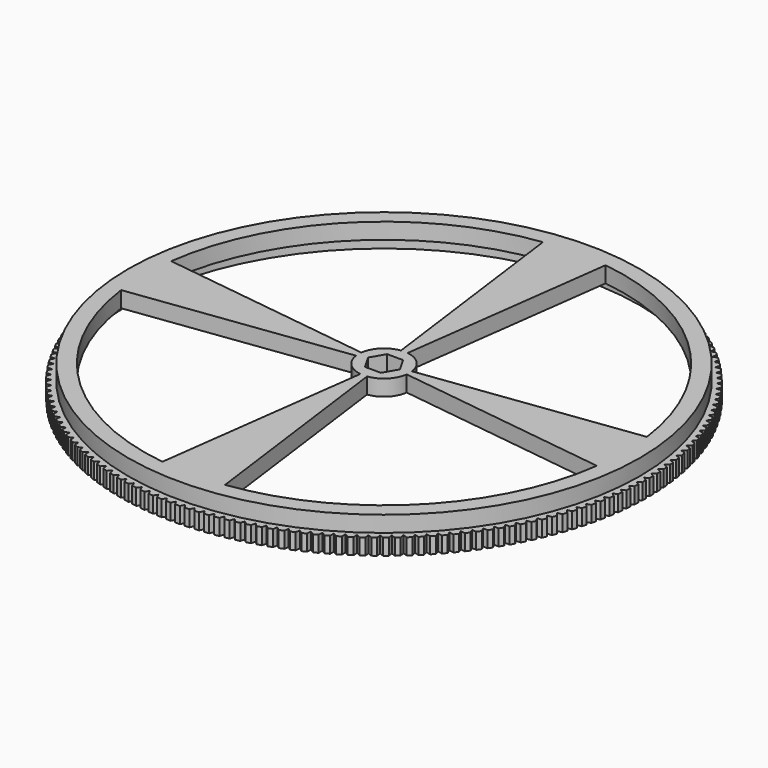
from build123d import *

# Parameters (mm, degrees)
F0_R     = 101.6
F1_DEPTH = 6.35
F2_R     = 101.6
F3_DEPTH = 6.35


with BuildPart() as f1:
    # F0 (on Top) → F1 (new body)
    with BuildSketch(Plane.XY):
        Circle(F0_R)
        with BuildLine():
            Line((-94.435123, -12.43262), (-10.07308, -1.326146))
            ThreePointArc((-10.07308, -1.326146), (-7.184205, -7.184205), (-1.326146, -10.07308))
            Line((-1.326146, -10.07308), (-12.43262, -94.435123))
            ThreePointArc((-12.43262, -94.435123), (-67.351921, -67.351921), (-94.435123, -12.43262))
        make_face(mode=Mode.SUBTRACT)
        Polygon((-6.35, 0.025492), (-3.152923, 5.512007), (3.197077, 5.486515), (6.35, -0.025492), (3.152923, -5.512007), (-3.197077, -5.486515), align=None, mode=Mode.SUBTRACT)
        with BuildLine():
            Line((12.43262, -94.435123), (1.326146, -10.07308))
            ThreePointArc((1.326146, -10.07308), (7.184205, -7.184205), (10.07308, -1.326146))
            Line((10.07308, -1.326146), (94.435123, -12.43262))
            ThreePointArc((94.435123, -12.43262), (67.351921, -67.351921), (12.43262, -94.435123))
        make_face(mode=Mode.SUBTRACT)
        with BuildLine():
            Line((-12.43262, 94.435123), (-1.326146, 10.07308))
            ThreePointArc((-1.326146, 10.07308), (-7.184205, 7.184205), (-10.07308, 1.326146))
            Line((-10.07308, 1.326146), (-94.435123, 12.43262))
            ThreePointArc((-94.435123, 12.43262), (-67.351921, 67.351921), (-12.43262, 94.435123))
        make_face(mode=Mode.SUBTRACT)
        with BuildLine():
            ThreePointArc((12.43262, 94.435123), (67.351921, 67.351921), (94.435123, 12.43262))
            Line((94.435123, 12.43262), (10.07308, 1.326146))
            ThreePointArc((10.07308, 1.326146), (7.184205, 7.184205), (1.326146, 10.07308))
            Line((1.326146, 10.07308), (12.43262, 94.435123))
        make_face(mode=Mode.SUBTRACT)
    extrude(amount=F1_DEPTH)

    # F2 (on Top) → F3 (join)
    with BuildSketch(Plane.XY):
        with BuildLine():
            Line((103.187357, 0), (104.77101, 0.914323))
            ThreePointArc((104.77101, 0.914323), (104.759042, 1.828576), (104.739096, 2.74269))
            Line((104.739096, 2.74269), (103.124498, 3.601187))
            Line((103.124498, 3.601187), (104.675277, 4.570221))
            ThreePointArc((104.675277, 4.570221), (104.63141, 5.4835), (104.579574, 6.396361))
            Line((104.579574, 6.396361), (102.935998, 7.197986))
            Line((102.935998, 7.197986), (104.452014, 8.220552))
            ThreePointArc((104.452014, 8.220552), (104.376299, 9.131743), (104.292637, 10.042239))
            Line((104.292637, 10.042239), (102.622086, 10.786016))
            Line((102.622086, 10.786016), (104.101491, 11.860867))
            ThreePointArc((104.101491, 11.860867), (103.994023, 12.76886), (103.878635, 13.675882))
            Line((103.878635, 13.675882), (102.183145, 14.360904))
            Line((102.183145, 14.360904), (103.624137, 15.486731))
            ThreePointArc((103.624137, 15.486731), (103.485046, 16.390421), (103.338074, 17.292863))
            Line((103.338074, 17.292863), (101.619709, 17.918297))
            Line((101.619709, 17.918297), (103.020533, 19.093727))
            ThreePointArc((103.020533, 19.093727), (102.849988, 19.992012), (102.671611, 20.888775))
            Line((102.671611, 20.888775), (100.932466, 21.453858))
            Line((100.932466, 21.453858), (102.291414, 22.677461))
            ThreePointArc((102.291414, 22.677461), (102.089624, 23.569247), (101.880058, 24.459238))
            Line((101.880058, 24.459238), (100.122252, 24.963281))
            Line((100.122252, 24.963281), (101.437669, 26.233565))
            ThreePointArc((101.437669, 26.233565), (101.204878, 27.117765), (100.964381, 27.999901))
            Line((100.964381, 27.999901), (99.190054, 28.44229))
            Line((99.190054, 28.44229), (100.460338, 29.757708))
            ThreePointArc((100.460338, 29.757708), (100.196831, 30.633245), (99.925694, 31.50645))
            Line((99.925694, 31.50645), (98.137008, 31.886647))
            Line((98.137008, 31.886647), (99.360611, 33.245595))
            ThreePointArc((99.360611, 33.245595), (99.066709, 34.111403), (98.765262, 34.974614))
            Line((98.765262, 34.974614), (96.964398, 35.292155))
            Line((96.964398, 35.292155), (98.139829, 36.692978))
            ThreePointArc((98.139829, 36.692978), (97.815889, 37.548002), (97.484501, 38.400166))
            Line((97.484501, 38.400166), (95.673651, 38.654664))
            Line((95.673651, 38.654664), (96.799478, 40.095657))
            ThreePointArc((96.799478, 40.095657), (96.445896, 40.938854), (96.084969, 41.778934))
            Line((96.084969, 41.778934), (94.266341, 41.970079))
            Line((94.266341, 41.970079), (95.341192, 43.449484))
            ThreePointArc((95.341192, 43.449484), (94.958398, 44.279828), (94.568373, 45.1068))
            Line((94.568373, 45.1068), (92.744182, 45.23436))
            Line((92.744182, 45.23436), (93.766748, 46.750376))
            ThreePointArc((93.766748, 46.750376), (93.355209, 47.566855), (92.93656, 48.379711))
            Line((92.93656, 48.379711), (91.109028, 48.44353))
            Line((91.109028, 48.44353), (92.078063, 49.994309))
            ThreePointArc((92.078063, 49.994309), (91.63828, 50.795928), (91.191518, 51.593679))
            Line((91.191518, 51.593679), (89.362873, 51.593679))
            Line((89.362873, 51.593679), (90.277195, 53.177332))
            ThreePointArc((90.277195, 53.177332), (89.809704, 53.963114), (89.335373, 54.744787))
            Line((89.335373, 54.744787), (87.507842, 54.680968))
            Line((87.507842, 54.680968), (88.366339, 56.295566))
            ThreePointArc((88.366339, 56.295566), (87.871709, 57.064555), (87.370387, 57.829198))
            Line((87.370387, 57.829198), (85.546196, 57.701638))
            Line((85.546196, 57.701638), (86.347821, 59.345213))
            ThreePointArc((86.347821, 59.345213), (85.826655, 60.096471), (85.298953, 60.843152))
            Line((85.298953, 60.843152), (83.480325, 60.652007))
            Line((83.480325, 60.652007), (84.224103, 62.322557))
            ThreePointArc((84.224103, 62.322557), (83.677036, 63.055169), (83.123596, 63.782979))
            Line((83.123596, 63.782979), (81.312747, 63.52848))
            Line((81.312747, 63.52848), (81.99777, 65.223971))
            ThreePointArc((81.99777, 65.223971), (81.425468, 65.937044), (80.846966, 66.645096))
            Line((80.846966, 66.645096), (79.046101, 66.327555))
            Line((79.046101, 66.327555), (79.671535, 68.045919))
            ThreePointArc((79.671535, 68.045919), (79.074696, 68.738585), (78.471836, 69.426016))
            Line((78.471836, 69.426016), (76.68315, 69.045819))
            Line((76.68315, 69.045819), (77.248233, 70.784964))
            ThreePointArc((77.248233, 70.784964), (76.627584, 71.456378), (76.0011, 72.122351))
            Line((76.0011, 72.122351), (74.226773, 71.679961))
            Line((74.226773, 71.679961), (74.730816, 73.437768))
            ThreePointArc((74.730816, 73.437768), (74.087113, 74.087113), (73.437768, 74.730816))
            Line((73.437768, 74.730816), (71.679961, 74.226773))
            Line((71.679961, 74.226773), (72.122351, 76.0011))
            ThreePointArc((72.122351, 76.0011), (71.456378, 76.627584), (70.784964, 77.248233))
            Line((70.784964, 77.248233), (69.045819, 76.68315))
            Line((69.045819, 76.68315), (69.426016, 78.471836))
            ThreePointArc((69.426016, 78.471836), (68.738585, 79.074696), (68.045919, 79.671535))
            Line((68.045919, 79.671535), (66.327555, 79.046101))
            Line((66.327555, 79.046101), (66.645096, 80.846966))
            ThreePointArc((66.645096, 80.846966), (65.937044, 81.425468), (65.223971, 81.99777))
            Line((65.223971, 81.99777), (63.52848, 81.312747))
            Line((63.52848, 81.312747), (63.782979, 83.123596))
            ThreePointArc((63.782979, 83.123596), (63.055169, 83.677036), (62.322557, 84.224103))
            Line((62.322557, 84.224103), (60.652007, 83.480325))
            Line((60.652007, 83.480325), (60.843152, 85.298953))
            ThreePointArc((60.843152, 85.298953), (60.096471, 85.826655), (59.345213, 86.347821))
            Line((59.345213, 86.347821), (57.701638, 85.546196))
            Line((57.701638, 85.546196), (57.829198, 87.370387))
            ThreePointArc((57.829198, 87.370387), (57.064555, 87.871709), (56.295566, 88.366339))
            Line((56.295566, 88.366339), (54.680968, 87.507842))
            Line((54.680968, 87.507842), (54.744787, 89.335373))
            ThreePointArc((54.744787, 89.335373), (53.963114, 89.809704), (53.177332, 90.277195))
            Line((53.177332, 90.277195), (51.593679, 89.362873))
            Line((51.593679, 89.362873), (51.593679, 91.191518))
            ThreePointArc((51.593679, 91.191518), (50.795928, 91.63828), (49.994309, 92.078063))
            Line((49.994309, 92.078063), (48.44353, 91.109028))
            Line((48.44353, 91.109028), (48.379711, 92.93656))
            ThreePointArc((48.379711, 92.93656), (47.566855, 93.355209), (46.750376, 93.766748))
            Line((46.750376, 93.766748), (45.23436, 92.744182))
            Line((45.23436, 92.744182), (45.1068, 94.568373))
            ThreePointArc((45.1068, 94.568373), (44.279828, 94.958398), (43.449484, 95.341192))
            Line((43.449484, 95.341192), (41.970079, 94.266341))
            Line((41.970079, 94.266341), (41.778934, 96.084969))
            ThreePointArc((41.778934, 96.084969), (40.938854, 96.445896), (40.095657, 96.799478))
            Line((40.095657, 96.799478), (38.654664, 95.673651))
            Line((38.654664, 95.673651), (38.400166, 97.484501))
            ThreePointArc((38.400166, 97.484501), (37.548002, 97.815889), (36.692978, 98.139829))
            Line((36.692978, 98.139829), (35.292155, 96.964398))
            Line((35.292155, 96.964398), (34.974614, 98.765262))
            ThreePointArc((34.974614, 98.765262), (34.111403, 99.066709), (33.245595, 99.360611))
            Line((33.245595, 99.360611), (31.886647, 98.137008))
            Line((31.886647, 98.137008), (31.50645, 99.925694))
            ThreePointArc((31.50645, 99.925694), (30.633245, 100.196831), (29.757708, 100.460338))
            Line((29.757708, 100.460338), (28.44229, 99.190054))
            Line((28.44229, 99.190054), (27.999901, 100.964381))
            ThreePointArc((27.999901, 100.964381), (27.117765, 101.204878), (26.233565, 101.437669))
            Line((26.233565, 101.437669), (24.963281, 100.122252))
            Line((24.963281, 100.122252), (24.459238, 101.880058))
            ThreePointArc((24.459238, 101.880058), (23.569247, 102.089624), (22.677461, 102.291414))
            Line((22.677461, 102.291414), (21.453858, 100.932466))
            Line((21.453858, 100.932466), (20.888775, 102.671611))
            ThreePointArc((20.888775, 102.671611), (19.992012, 102.849988), (19.093727, 103.020533))
            Line((19.093727, 103.020533), (17.918297, 101.619709))
            Line((17.918297, 101.619709), (17.292863, 103.338074))
            ThreePointArc((17.292863, 103.338074), (16.390421, 103.485046), (15.486731, 103.624137))
            Line((15.486731, 103.624137), (14.360904, 102.183145))
            Line((14.360904, 102.183145), (13.675882, 103.878635))
            ThreePointArc((13.675882, 103.878635), (12.76886, 103.994023), (11.860867, 104.101491))
            Line((11.860867, 104.101491), (10.786016, 102.622086))
            Line((10.786016, 102.622086), (10.042239, 104.292637))
            ThreePointArc((10.042239, 104.292637), (9.131743, 104.376299), (8.220552, 104.452014))
            Line((8.220552, 104.452014), (7.197986, 102.935998))
            Line((7.197986, 102.935998), (6.396361, 104.579574))
            ThreePointArc((6.396361, 104.579574), (5.4835, 104.63141), (4.570221, 104.675277))
            Line((4.570221, 104.675277), (3.601187, 103.124498))
            Line((3.601187, 103.124498), (2.74269, 104.739096))
            ThreePointArc((2.74269, 104.739096), (1.828576, 104.759042), (0.914323, 104.77101))
            Line((0.914323, 104.77101), (0, 103.187357))
            Line((0, 103.187357), (-0.914323, 104.77101))
            ThreePointArc((-0.914323, 104.77101), (-1.828576, 104.759042), (-2.74269, 104.739096))
            Line((-2.74269, 104.739096), (-3.601187, 103.124498))
            Line((-3.601187, 103.124498), (-4.570221, 104.675277))
            ThreePointArc((-4.570221, 104.675277), (-5.4835, 104.63141), (-6.396361, 104.579574))
            Line((-6.396361, 104.579574), (-7.197986, 102.935998))
            Line((-7.197986, 102.935998), (-8.220552, 104.452014))
            ThreePointArc((-8.220552, 104.452014), (-9.131743, 104.376299), (-10.042239, 104.292637))
            Line((-10.042239, 104.292637), (-10.786016, 102.622086))
            Line((-10.786016, 102.622086), (-11.860867, 104.101491))
            ThreePointArc((-11.860867, 104.101491), (-12.76886, 103.994023), (-13.675882, 103.878635))
            Line((-13.675882, 103.878635), (-14.360904, 102.183145))
            Line((-14.360904, 102.183145), (-15.486731, 103.624137))
            ThreePointArc((-15.486731, 103.624137), (-16.390421, 103.485046), (-17.292863, 103.338074))
            Line((-17.292863, 103.338074), (-17.918297, 101.619709))
            Line((-17.918297, 101.619709), (-19.093727, 103.020533))
            ThreePointArc((-19.093727, 103.020533), (-19.992012, 102.849988), (-20.888775, 102.671611))
            Line((-20.888775, 102.671611), (-21.453858, 100.932466))
            Line((-21.453858, 100.932466), (-22.677461, 102.291414))
            ThreePointArc((-22.677461, 102.291414), (-23.569247, 102.089624), (-24.459238, 101.880058))
            Line((-24.459238, 101.880058), (-24.963281, 100.122252))
            Line((-24.963281, 100.122252), (-26.233565, 101.437669))
            ThreePointArc((-26.233565, 101.437669), (-27.117765, 101.204878), (-27.999901, 100.964381))
            Line((-27.999901, 100.964381), (-28.44229, 99.190054))
            Line((-28.44229, 99.190054), (-29.757708, 100.460338))
            ThreePointArc((-29.757708, 100.460338), (-30.633245, 100.196831), (-31.50645, 99.925694))
            Line((-31.50645, 99.925694), (-31.886647, 98.137008))
            Line((-31.886647, 98.137008), (-33.245595, 99.360611))
            ThreePointArc((-33.245595, 99.360611), (-34.111403, 99.066709), (-34.974614, 98.765262))
            Line((-34.974614, 98.765262), (-35.292155, 96.964398))
            Line((-35.292155, 96.964398), (-36.692978, 98.139829))
            ThreePointArc((-36.692978, 98.139829), (-37.548002, 97.815889), (-38.400166, 97.484501))
            Line((-38.400166, 97.484501), (-38.654664, 95.673651))
            Line((-38.654664, 95.673651), (-40.095657, 96.799478))
            ThreePointArc((-40.095657, 96.799478), (-40.938854, 96.445896), (-41.778934, 96.084969))
            Line((-41.778934, 96.084969), (-41.970079, 94.266341))
            Line((-41.970079, 94.266341), (-43.449484, 95.341192))
            ThreePointArc((-43.449484, 95.341192), (-44.279828, 94.958398), (-45.1068, 94.568373))
            Line((-45.1068, 94.568373), (-45.23436, 92.744182))
            Line((-45.23436, 92.744182), (-46.750376, 93.766748))
            ThreePointArc((-46.750376, 93.766748), (-47.566855, 93.355209), (-48.379711, 92.93656))
            Line((-48.379711, 92.93656), (-48.44353, 91.109028))
            Line((-48.44353, 91.109028), (-49.994309, 92.078063))
            ThreePointArc((-49.994309, 92.078063), (-50.795928, 91.63828), (-51.593679, 91.191518))
            Line((-51.593679, 91.191518), (-51.593679, 89.362873))
            Line((-51.593679, 89.362873), (-53.177332, 90.277195))
            ThreePointArc((-53.177332, 90.277195), (-53.963114, 89.809704), (-54.744787, 89.335373))
            Line((-54.744787, 89.335373), (-54.680968, 87.507842))
            Line((-54.680968, 87.507842), (-56.295566, 88.366339))
            ThreePointArc((-56.295566, 88.366339), (-57.064555, 87.871709), (-57.829198, 87.370387))
            Line((-57.829198, 87.370387), (-57.701638, 85.546196))
            Line((-57.701638, 85.546196), (-59.345213, 86.347821))
            ThreePointArc((-59.345213, 86.347821), (-60.096471, 85.826655), (-60.843152, 85.298953))
            Line((-60.843152, 85.298953), (-60.652007, 83.480325))
            Line((-60.652007, 83.480325), (-62.322557, 84.224103))
            ThreePointArc((-62.322557, 84.224103), (-63.055169, 83.677036), (-63.782979, 83.123596))
            Line((-63.782979, 83.123596), (-63.52848, 81.312747))
            Line((-63.52848, 81.312747), (-65.223971, 81.99777))
            ThreePointArc((-65.223971, 81.99777), (-65.937044, 81.425468), (-66.645096, 80.846966))
            Line((-66.645096, 80.846966), (-66.327555, 79.046101))
            Line((-66.327555, 79.046101), (-68.045919, 79.671535))
            ThreePointArc((-68.045919, 79.671535), (-68.738585, 79.074696), (-69.426016, 78.471836))
            Line((-69.426016, 78.471836), (-69.045819, 76.68315))
            Line((-69.045819, 76.68315), (-70.784964, 77.248233))
            ThreePointArc((-70.784964, 77.248233), (-71.456378, 76.627584), (-72.122351, 76.0011))
            Line((-72.122351, 76.0011), (-71.679961, 74.226773))
            Line((-71.679961, 74.226773), (-73.437768, 74.730816))
            ThreePointArc((-73.437768, 74.730816), (-74.087113, 74.087113), (-74.730816, 73.437768))
            Line((-74.730816, 73.437768), (-74.226773, 71.679961))
            Line((-74.226773, 71.679961), (-76.0011, 72.122351))
            ThreePointArc((-76.0011, 72.122351), (-76.627584, 71.456378), (-77.248233, 70.784964))
            Line((-77.248233, 70.784964), (-76.68315, 69.045819))
            Line((-76.68315, 69.045819), (-78.471836, 69.426016))
            ThreePointArc((-78.471836, 69.426016), (-79.074696, 68.738585), (-79.671535, 68.045919))
            Line((-79.671535, 68.045919), (-79.046101, 66.327555))
            Line((-79.046101, 66.327555), (-80.846966, 66.645096))
            ThreePointArc((-80.846966, 66.645096), (-81.425468, 65.937044), (-81.99777, 65.223971))
            Line((-81.99777, 65.223971), (-81.312747, 63.52848))
            Line((-81.312747, 63.52848), (-83.123596, 63.782979))
            ThreePointArc((-83.123596, 63.782979), (-83.677036, 63.055169), (-84.224103, 62.322557))
            Line((-84.224103, 62.322557), (-83.480325, 60.652007))
            Line((-83.480325, 60.652007), (-85.298953, 60.843152))
            ThreePointArc((-85.298953, 60.843152), (-85.826655, 60.096471), (-86.347821, 59.345213))
            Line((-86.347821, 59.345213), (-85.546196, 57.701638))
            Line((-85.546196, 57.701638), (-87.370387, 57.829198))
            ThreePointArc((-87.370387, 57.829198), (-87.871709, 57.064555), (-88.366339, 56.295566))
            Line((-88.366339, 56.295566), (-87.507842, 54.680968))
            Line((-87.507842, 54.680968), (-89.335373, 54.744787))
            ThreePointArc((-89.335373, 54.744787), (-89.809704, 53.963114), (-90.277195, 53.177332))
            Line((-90.277195, 53.177332), (-89.362873, 51.593679))
            Line((-89.362873, 51.593679), (-91.191518, 51.593679))
            ThreePointArc((-91.191518, 51.593679), (-91.63828, 50.795928), (-92.078063, 49.994309))
            Line((-92.078063, 49.994309), (-91.109028, 48.44353))
            Line((-91.109028, 48.44353), (-92.93656, 48.379711))
            ThreePointArc((-92.93656, 48.379711), (-93.355209, 47.566855), (-93.766748, 46.750376))
            Line((-93.766748, 46.750376), (-92.744182, 45.23436))
            Line((-92.744182, 45.23436), (-94.568373, 45.1068))
            ThreePointArc((-94.568373, 45.1068), (-94.958398, 44.279828), (-95.341192, 43.449484))
            Line((-95.341192, 43.449484), (-94.266341, 41.970079))
            Line((-94.266341, 41.970079), (-96.084969, 41.778934))
            ThreePointArc((-96.084969, 41.778934), (-96.445896, 40.938854), (-96.799478, 40.095657))
            Line((-96.799478, 40.095657), (-95.673651, 38.654664))
            Line((-95.673651, 38.654664), (-97.484501, 38.400166))
            ThreePointArc((-97.484501, 38.400166), (-97.815889, 37.548002), (-98.139829, 36.692978))
            Line((-98.139829, 36.692978), (-96.964398, 35.292155))
            Line((-96.964398, 35.292155), (-98.765262, 34.974614))
            ThreePointArc((-98.765262, 34.974614), (-99.066709, 34.111403), (-99.360611, 33.245595))
            Line((-99.360611, 33.245595), (-98.137008, 31.886647))
            Line((-98.137008, 31.886647), (-99.925694, 31.50645))
            ThreePointArc((-99.925694, 31.50645), (-100.196831, 30.633245), (-100.460338, 29.757708))
            Line((-100.460338, 29.757708), (-99.190054, 28.44229))
            Line((-99.190054, 28.44229), (-100.964381, 27.999901))
            ThreePointArc((-100.964381, 27.999901), (-101.204878, 27.117765), (-101.437669, 26.233565))
            Line((-101.437669, 26.233565), (-100.122252, 24.963281))
            Line((-100.122252, 24.963281), (-101.880058, 24.459238))
            ThreePointArc((-101.880058, 24.459238), (-102.089624, 23.569247), (-102.291414, 22.677461))
            Line((-102.291414, 22.677461), (-100.932466, 21.453858))
            Line((-100.932466, 21.453858), (-102.671611, 20.888775))
            ThreePointArc((-102.671611, 20.888775), (-102.849988, 19.992012), (-103.020533, 19.093727))
            Line((-103.020533, 19.093727), (-101.619709, 17.918297))
            Line((-101.619709, 17.918297), (-103.338074, 17.292863))
            ThreePointArc((-103.338074, 17.292863), (-103.485046, 16.390421), (-103.624137, 15.486731))
            Line((-103.624137, 15.486731), (-102.183145, 14.360904))
            Line((-102.183145, 14.360904), (-103.878635, 13.675882))
            ThreePointArc((-103.878635, 13.675882), (-103.994023, 12.76886), (-104.101491, 11.860867))
            Line((-104.101491, 11.860867), (-102.622086, 10.786016))
            Line((-102.622086, 10.786016), (-104.292637, 10.042239))
            ThreePointArc((-104.292637, 10.042239), (-104.376299, 9.131743), (-104.452014, 8.220552))
            Line((-104.452014, 8.220552), (-102.935998, 7.197986))
            Line((-102.935998, 7.197986), (-104.579574, 6.396361))
            ThreePointArc((-104.579574, 6.396361), (-104.63141, 5.4835), (-104.675277, 4.570221))
            Line((-104.675277, 4.570221), (-103.124498, 3.601187))
            Line((-103.124498, 3.601187), (-104.739096, 2.74269))
            ThreePointArc((-104.739096, 2.74269), (-104.759042, 1.828576), (-104.77101, 0.914323))
            Line((-104.77101, 0.914323), (-103.187357, 0))
            Line((-103.187357, 0), (-104.77101, -0.914323))
            ThreePointArc((-104.77101, -0.914323), (-104.759042, -1.828576), (-104.739096, -2.74269))
            Line((-104.739096, -2.74269), (-103.124498, -3.601187))
            Line((-103.124498, -3.601187), (-104.675277, -4.570221))
            ThreePointArc((-104.675277, -4.570221), (-104.63141, -5.4835), (-104.579574, -6.396361))
            Line((-104.579574, -6.396361), (-102.935998, -7.197986))
            Line((-102.935998, -7.197986), (-104.452014, -8.220552))
            ThreePointArc((-104.452014, -8.220552), (-104.376299, -9.131743), (-104.292637, -10.042239))
            Line((-104.292637, -10.042239), (-102.622086, -10.786016))
            Line((-102.622086, -10.786016), (-104.101491, -11.860867))
            ThreePointArc((-104.101491, -11.860867), (-103.994023, -12.76886), (-103.878635, -13.675882))
            Line((-103.878635, -13.675882), (-102.183145, -14.360904))
            Line((-102.183145, -14.360904), (-103.624137, -15.486731))
            ThreePointArc((-103.624137, -15.486731), (-103.485046, -16.390421), (-103.338074, -17.292863))
            Line((-103.338074, -17.292863), (-101.619709, -17.918297))
            Line((-101.619709, -17.918297), (-103.020533, -19.093727))
            ThreePointArc((-103.020533, -19.093727), (-102.849988, -19.992012), (-102.671611, -20.888775))
            Line((-102.671611, -20.888775), (-100.932466, -21.453858))
            Line((-100.932466, -21.453858), (-102.291414, -22.677461))
            ThreePointArc((-102.291414, -22.677461), (-102.089624, -23.569247), (-101.880058, -24.459238))
            Line((-101.880058, -24.459238), (-100.122252, -24.963281))
            Line((-100.122252, -24.963281), (-101.437669, -26.233565))
            ThreePointArc((-101.437669, -26.233565), (-101.204878, -27.117765), (-100.964381, -27.999901))
            Line((-100.964381, -27.999901), (-99.190054, -28.44229))
            Line((-99.190054, -28.44229), (-100.460338, -29.757708))
            ThreePointArc((-100.460338, -29.757708), (-100.196831, -30.633245), (-99.925694, -31.50645))
            Line((-99.925694, -31.50645), (-98.137008, -31.886647))
            Line((-98.137008, -31.886647), (-99.360611, -33.245595))
            ThreePointArc((-99.360611, -33.245595), (-99.066709, -34.111403), (-98.765262, -34.974614))
            Line((-98.765262, -34.974614), (-96.964398, -35.292155))
            Line((-96.964398, -35.292155), (-98.139829, -36.692978))
            ThreePointArc((-98.139829, -36.692978), (-97.815889, -37.548002), (-97.484501, -38.400166))
            Line((-97.484501, -38.400166), (-95.673651, -38.654664))
            Line((-95.673651, -38.654664), (-96.799478, -40.095657))
            ThreePointArc((-96.799478, -40.095657), (-96.445896, -40.938854), (-96.084969, -41.778934))
            Line((-96.084969, -41.778934), (-94.266341, -41.970079))
            Line((-94.266341, -41.970079), (-95.341192, -43.449484))
            ThreePointArc((-95.341192, -43.449484), (-94.958398, -44.279828), (-94.568373, -45.1068))
            Line((-94.568373, -45.1068), (-92.744182, -45.23436))
            Line((-92.744182, -45.23436), (-93.766748, -46.750376))
            ThreePointArc((-93.766748, -46.750376), (-93.355209, -47.566855), (-92.93656, -48.379711))
            Line((-92.93656, -48.379711), (-91.109028, -48.44353))
            Line((-91.109028, -48.44353), (-92.078063, -49.994309))
            ThreePointArc((-92.078063, -49.994309), (-91.63828, -50.795928), (-91.191518, -51.593679))
            Line((-91.191518, -51.593679), (-89.362873, -51.593679))
            Line((-89.362873, -51.593679), (-90.277195, -53.177332))
            ThreePointArc((-90.277195, -53.177332), (-89.809704, -53.963114), (-89.335373, -54.744787))
            Line((-89.335373, -54.744787), (-87.507842, -54.680968))
            Line((-87.507842, -54.680968), (-88.366339, -56.295566))
            ThreePointArc((-88.366339, -56.295566), (-87.871709, -57.064555), (-87.370387, -57.829198))
            Line((-87.370387, -57.829198), (-85.546196, -57.701638))
            Line((-85.546196, -57.701638), (-86.347821, -59.345213))
            ThreePointArc((-86.347821, -59.345213), (-85.826655, -60.096471), (-85.298953, -60.843152))
            Line((-85.298953, -60.843152), (-83.480325, -60.652007))
            Line((-83.480325, -60.652007), (-84.224103, -62.322557))
            ThreePointArc((-84.224103, -62.322557), (-83.677036, -63.055169), (-83.123596, -63.782979))
            Line((-83.123596, -63.782979), (-81.312747, -63.52848))
            Line((-81.312747, -63.52848), (-81.99777, -65.223971))
            ThreePointArc((-81.99777, -65.223971), (-81.425468, -65.937044), (-80.846966, -66.645096))
            Line((-80.846966, -66.645096), (-79.046101, -66.327555))
            Line((-79.046101, -66.327555), (-79.671535, -68.045919))
            ThreePointArc((-79.671535, -68.045919), (-79.074696, -68.738585), (-78.471836, -69.426016))
            Line((-78.471836, -69.426016), (-76.68315, -69.045819))
            Line((-76.68315, -69.045819), (-77.248233, -70.784964))
            ThreePointArc((-77.248233, -70.784964), (-76.627584, -71.456378), (-76.0011, -72.122351))
            Line((-76.0011, -72.122351), (-74.226773, -71.679961))
            Line((-74.226773, -71.679961), (-74.730816, -73.437768))
            ThreePointArc((-74.730816, -73.437768), (-74.087113, -74.087113), (-73.437768, -74.730816))
            Line((-73.437768, -74.730816), (-71.679961, -74.226773))
            Line((-71.679961, -74.226773), (-72.122351, -76.0011))
            ThreePointArc((-72.122351, -76.0011), (-71.456378, -76.627584), (-70.784964, -77.248233))
            Line((-70.784964, -77.248233), (-69.045819, -76.68315))
            Line((-69.045819, -76.68315), (-69.426016, -78.471836))
            ThreePointArc((-69.426016, -78.471836), (-68.738585, -79.074696), (-68.045919, -79.671535))
            Line((-68.045919, -79.671535), (-66.327555, -79.046101))
            Line((-66.327555, -79.046101), (-66.645096, -80.846966))
            ThreePointArc((-66.645096, -80.846966), (-65.937044, -81.425468), (-65.223971, -81.99777))
            Line((-65.223971, -81.99777), (-63.52848, -81.312747))
            Line((-63.52848, -81.312747), (-63.782979, -83.123596))
            ThreePointArc((-63.782979, -83.123596), (-63.055169, -83.677036), (-62.322557, -84.224103))
            Line((-62.322557, -84.224103), (-60.652007, -83.480325))
            Line((-60.652007, -83.480325), (-60.843152, -85.298953))
            ThreePointArc((-60.843152, -85.298953), (-60.096471, -85.826655), (-59.345213, -86.347821))
            Line((-59.345213, -86.347821), (-57.701638, -85.546196))
            Line((-57.701638, -85.546196), (-57.829198, -87.370387))
            ThreePointArc((-57.829198, -87.370387), (-57.064555, -87.871709), (-56.295566, -88.366339))
            Line((-56.295566, -88.366339), (-54.680968, -87.507842))
            Line((-54.680968, -87.507842), (-54.744787, -89.335373))
            ThreePointArc((-54.744787, -89.335373), (-53.963114, -89.809704), (-53.177332, -90.277195))
            Line((-53.177332, -90.277195), (-51.593679, -89.362873))
            Line((-51.593679, -89.362873), (-51.593679, -91.191518))
            ThreePointArc((-51.593679, -91.191518), (-50.795928, -91.63828), (-49.994309, -92.078063))
            Line((-49.994309, -92.078063), (-48.44353, -91.109028))
            Line((-48.44353, -91.109028), (-48.379711, -92.93656))
            ThreePointArc((-48.379711, -92.93656), (-47.566855, -93.355209), (-46.750376, -93.766748))
            Line((-46.750376, -93.766748), (-45.23436, -92.744182))
            Line((-45.23436, -92.744182), (-45.1068, -94.568373))
            ThreePointArc((-45.1068, -94.568373), (-44.279828, -94.958398), (-43.449484, -95.341192))
            Line((-43.449484, -95.341192), (-41.970079, -94.266341))
            Line((-41.970079, -94.266341), (-41.778934, -96.084969))
            ThreePointArc((-41.778934, -96.084969), (-40.938854, -96.445896), (-40.095657, -96.799478))
            Line((-40.095657, -96.799478), (-38.654664, -95.673651))
            Line((-38.654664, -95.673651), (-38.400166, -97.484501))
            ThreePointArc((-38.400166, -97.484501), (-37.548002, -97.815889), (-36.692978, -98.139829))
            Line((-36.692978, -98.139829), (-35.292155, -96.964398))
            Line((-35.292155, -96.964398), (-34.974614, -98.765262))
            ThreePointArc((-34.974614, -98.765262), (-34.111403, -99.066709), (-33.245595, -99.360611))
            Line((-33.245595, -99.360611), (-31.886647, -98.137008))
            Line((-31.886647, -98.137008), (-31.50645, -99.925694))
            ThreePointArc((-31.50645, -99.925694), (-30.633245, -100.196831), (-29.757708, -100.460338))
            Line((-29.757708, -100.460338), (-28.44229, -99.190054))
            Line((-28.44229, -99.190054), (-27.999901, -100.964381))
            ThreePointArc((-27.999901, -100.964381), (-27.117765, -101.204878), (-26.233565, -101.437669))
            Line((-26.233565, -101.437669), (-24.963281, -100.122252))
            Line((-24.963281, -100.122252), (-24.459238, -101.880058))
            ThreePointArc((-24.459238, -101.880058), (-23.569247, -102.089624), (-22.677461, -102.291414))
            Line((-22.677461, -102.291414), (-21.453858, -100.932466))
            Line((-21.453858, -100.932466), (-20.888775, -102.671611))
            ThreePointArc((-20.888775, -102.671611), (-19.992012, -102.849988), (-19.093727, -103.020533))
            Line((-19.093727, -103.020533), (-17.918297, -101.619709))
            Line((-17.918297, -101.619709), (-17.292863, -103.338074))
            ThreePointArc((-17.292863, -103.338074), (-16.390421, -103.485046), (-15.486731, -103.624137))
            Line((-15.486731, -103.624137), (-14.360904, -102.183145))
            Line((-14.360904, -102.183145), (-13.675882, -103.878635))
            ThreePointArc((-13.675882, -103.878635), (-12.76886, -103.994023), (-11.860867, -104.101491))
            Line((-11.860867, -104.101491), (-10.786016, -102.622086))
            Line((-10.786016, -102.622086), (-10.042239, -104.292637))
            ThreePointArc((-10.042239, -104.292637), (-9.131743, -104.376299), (-8.220552, -104.452014))
            Line((-8.220552, -104.452014), (-7.197986, -102.935998))
            Line((-7.197986, -102.935998), (-6.396361, -104.579574))
            ThreePointArc((-6.396361, -104.579574), (-5.4835, -104.63141), (-4.570221, -104.675277))
            Line((-4.570221, -104.675277), (-3.601187, -103.124498))
            Line((-3.601187, -103.124498), (-2.74269, -104.739096))
            ThreePointArc((-2.74269, -104.739096), (-1.828576, -104.759042), (-0.914323, -104.77101))
            Line((-0.914323, -104.77101), (0, -103.187357))
            Line((0, -103.187357), (0.914323, -104.77101))
            ThreePointArc((0.914323, -104.77101), (1.828576, -104.759042), (2.74269, -104.739096))
            Line((2.74269, -104.739096), (3.601187, -103.124498))
            Line((3.601187, -103.124498), (4.570221, -104.675277))
            ThreePointArc((4.570221, -104.675277), (5.4835, -104.63141), (6.396361, -104.579574))
            Line((6.396361, -104.579574), (7.197986, -102.935998))
            Line((7.197986, -102.935998), (8.220552, -104.452014))
            ThreePointArc((8.220552, -104.452014), (9.131743, -104.376299), (10.042239, -104.292637))
            Line((10.042239, -104.292637), (10.786016, -102.622086))
            Line((10.786016, -102.622086), (11.860867, -104.101491))
            ThreePointArc((11.860867, -104.101491), (12.76886, -103.994023), (13.675882, -103.878635))
            Line((13.675882, -103.878635), (14.360904, -102.183145))
            Line((14.360904, -102.183145), (15.486731, -103.624137))
            ThreePointArc((15.486731, -103.624137), (16.390421, -103.485046), (17.292863, -103.338074))
            Line((17.292863, -103.338074), (17.918297, -101.619709))
            Line((17.918297, -101.619709), (19.093727, -103.020533))
            ThreePointArc((19.093727, -103.020533), (19.992012, -102.849988), (20.888775, -102.671611))
            Line((20.888775, -102.671611), (21.453858, -100.932466))
            Line((21.453858, -100.932466), (22.677461, -102.291414))
            ThreePointArc((22.677461, -102.291414), (23.569247, -102.089624), (24.459238, -101.880058))
            Line((24.459238, -101.880058), (24.963281, -100.122252))
            Line((24.963281, -100.122252), (26.233565, -101.437669))
            ThreePointArc((26.233565, -101.437669), (27.117765, -101.204878), (27.999901, -100.964381))
            Line((27.999901, -100.964381), (28.44229, -99.190054))
            Line((28.44229, -99.190054), (29.757708, -100.460338))
            ThreePointArc((29.757708, -100.460338), (30.633245, -100.196831), (31.50645, -99.925694))
            Line((31.50645, -99.925694), (31.886647, -98.137008))
            Line((31.886647, -98.137008), (33.245595, -99.360611))
            ThreePointArc((33.245595, -99.360611), (34.111403, -99.066709), (34.974614, -98.765262))
            Line((34.974614, -98.765262), (35.292155, -96.964398))
            Line((35.292155, -96.964398), (36.692978, -98.139829))
            ThreePointArc((36.692978, -98.139829), (37.548002, -97.815889), (38.400166, -97.484501))
            Line((38.400166, -97.484501), (38.654664, -95.673651))
            Line((38.654664, -95.673651), (40.095657, -96.799478))
            ThreePointArc((40.095657, -96.799478), (40.938854, -96.445896), (41.778934, -96.084969))
            Line((41.778934, -96.084969), (41.970079, -94.266341))
            Line((41.970079, -94.266341), (43.449484, -95.341192))
            ThreePointArc((43.449484, -95.341192), (44.279828, -94.958398), (45.1068, -94.568373))
            Line((45.1068, -94.568373), (45.23436, -92.744182))
            Line((45.23436, -92.744182), (46.750376, -93.766748))
            ThreePointArc((46.750376, -93.766748), (47.566855, -93.355209), (48.379711, -92.93656))
            Line((48.379711, -92.93656), (48.44353, -91.109028))
            Line((48.44353, -91.109028), (49.994309, -92.078063))
            ThreePointArc((49.994309, -92.078063), (50.795928, -91.63828), (51.593679, -91.191518))
            Line((51.593679, -91.191518), (51.593679, -89.362873))
            Line((51.593679, -89.362873), (53.177332, -90.277195))
            ThreePointArc((53.177332, -90.277195), (53.963114, -89.809704), (54.744787, -89.335373))
            Line((54.744787, -89.335373), (54.680968, -87.507842))
            Line((54.680968, -87.507842), (56.295566, -88.366339))
            ThreePointArc((56.295566, -88.366339), (57.064555, -87.871709), (57.829198, -87.370387))
            Line((57.829198, -87.370387), (57.701638, -85.546196))
            Line((57.701638, -85.546196), (59.345213, -86.347821))
            ThreePointArc((59.345213, -86.347821), (60.096471, -85.826655), (60.843152, -85.298953))
            Line((60.843152, -85.298953), (60.652007, -83.480325))
            Line((60.652007, -83.480325), (62.322557, -84.224103))
            ThreePointArc((62.322557, -84.224103), (63.055169, -83.677036), (63.782979, -83.123596))
            Line((63.782979, -83.123596), (63.52848, -81.312747))
            Line((63.52848, -81.312747), (65.223971, -81.99777))
            ThreePointArc((65.223971, -81.99777), (65.937044, -81.425468), (66.645096, -80.846966))
            Line((66.645096, -80.846966), (66.327555, -79.046101))
            Line((66.327555, -79.046101), (68.045919, -79.671535))
            ThreePointArc((68.045919, -79.671535), (68.738585, -79.074696), (69.426016, -78.471836))
            Line((69.426016, -78.471836), (69.045819, -76.68315))
            Line((69.045819, -76.68315), (70.784964, -77.248233))
            ThreePointArc((70.784964, -77.248233), (71.456378, -76.627584), (72.122351, -76.0011))
            Line((72.122351, -76.0011), (71.679961, -74.226773))
            Line((71.679961, -74.226773), (73.437768, -74.730816))
            ThreePointArc((73.437768, -74.730816), (74.087113, -74.087113), (74.730816, -73.437768))
            Line((74.730816, -73.437768), (74.226773, -71.679961))
            Line((74.226773, -71.679961), (76.0011, -72.122351))
            ThreePointArc((76.0011, -72.122351), (76.627584, -71.456378), (77.248233, -70.784964))
            Line((77.248233, -70.784964), (76.68315, -69.045819))
            Line((76.68315, -69.045819), (78.471836, -69.426016))
            ThreePointArc((78.471836, -69.426016), (79.074696, -68.738585), (79.671535, -68.045919))
            Line((79.671535, -68.045919), (79.046101, -66.327555))
            Line((79.046101, -66.327555), (80.846966, -66.645096))
            ThreePointArc((80.846966, -66.645096), (81.425468, -65.937044), (81.99777, -65.223971))
            Line((81.99777, -65.223971), (81.312747, -63.52848))
            Line((81.312747, -63.52848), (83.123596, -63.782979))
            ThreePointArc((83.123596, -63.782979), (83.677036, -63.055169), (84.224103, -62.322557))
            Line((84.224103, -62.322557), (83.480325, -60.652007))
            Line((83.480325, -60.652007), (85.298953, -60.843152))
            ThreePointArc((85.298953, -60.843152), (85.826655, -60.096471), (86.347821, -59.345213))
            Line((86.347821, -59.345213), (85.546196, -57.701638))
            Line((85.546196, -57.701638), (87.370387, -57.829198))
            ThreePointArc((87.370387, -57.829198), (87.871709, -57.064555), (88.366339, -56.295566))
            Line((88.366339, -56.295566), (87.507842, -54.680968))
            Line((87.507842, -54.680968), (89.335373, -54.744787))
            ThreePointArc((89.335373, -54.744787), (89.809704, -53.963114), (90.277195, -53.177332))
            Line((90.277195, -53.177332), (89.362873, -51.593679))
            Line((89.362873, -51.593679), (91.191518, -51.593679))
            ThreePointArc((91.191518, -51.593679), (91.63828, -50.795928), (92.078063, -49.994309))
            Line((92.078063, -49.994309), (91.109028, -48.44353))
            Line((91.109028, -48.44353), (92.93656, -48.379711))
            ThreePointArc((92.93656, -48.379711), (93.355209, -47.566855), (93.766748, -46.750376))
            Line((93.766748, -46.750376), (92.744182, -45.23436))
            Line((92.744182, -45.23436), (94.568373, -45.1068))
            ThreePointArc((94.568373, -45.1068), (94.958398, -44.279828), (95.341192, -43.449484))
            Line((95.341192, -43.449484), (94.266341, -41.970079))
            Line((94.266341, -41.970079), (96.084969, -41.778934))
            ThreePointArc((96.084969, -41.778934), (96.445896, -40.938854), (96.799478, -40.095657))
            Line((96.799478, -40.095657), (95.673651, -38.654664))
            Line((95.673651, -38.654664), (97.484501, -38.400166))
            ThreePointArc((97.484501, -38.400166), (97.815889, -37.548002), (98.139829, -36.692978))
            Line((98.139829, -36.692978), (96.964398, -35.292155))
            Line((96.964398, -35.292155), (98.765262, -34.974614))
            ThreePointArc((98.765262, -34.974614), (99.066709, -34.111403), (99.360611, -33.245595))
            Line((99.360611, -33.245595), (98.137008, -31.886647))
            Line((98.137008, -31.886647), (99.925694, -31.50645))
            ThreePointArc((99.925694, -31.50645), (100.196831, -30.633245), (100.460338, -29.757708))
            Line((100.460338, -29.757708), (99.190054, -28.44229))
            Line((99.190054, -28.44229), (100.964381, -27.999901))
            ThreePointArc((100.964381, -27.999901), (101.204878, -27.117765), (101.437669, -26.233565))
            Line((101.437669, -26.233565), (100.122252, -24.963281))
            Line((100.122252, -24.963281), (101.880058, -24.459238))
            ThreePointArc((101.880058, -24.459238), (102.089624, -23.569247), (102.291414, -22.677461))
            Line((102.291414, -22.677461), (100.932466, -21.453858))
            Line((100.932466, -21.453858), (102.671611, -20.888775))
            ThreePointArc((102.671611, -20.888775), (102.849988, -19.992012), (103.020533, -19.093727))
            Line((103.020533, -19.093727), (101.619709, -17.918297))
            Line((101.619709, -17.918297), (103.338074, -17.292863))
            ThreePointArc((103.338074, -17.292863), (103.485046, -16.390421), (103.624137, -15.486731))
            Line((103.624137, -15.486731), (102.183145, -14.360904))
            Line((102.183145, -14.360904), (103.878635, -13.675882))
            ThreePointArc((103.878635, -13.675882), (103.994023, -12.76886), (104.101491, -11.860867))
            Line((104.101491, -11.860867), (102.622086, -10.786016))
            Line((102.622086, -10.786016), (104.292637, -10.042239))
            ThreePointArc((104.292637, -10.042239), (104.376299, -9.131743), (104.452014, -8.220552))
            Line((104.452014, -8.220552), (102.935998, -7.197986))
            Line((102.935998, -7.197986), (104.579574, -6.396361))
            ThreePointArc((104.579574, -6.396361), (104.63141, -5.4835), (104.675277, -4.570221))
            Line((104.675277, -4.570221), (103.124498, -3.601187))
            Line((103.124498, -3.601187), (104.739096, -2.74269))
            ThreePointArc((104.739096, -2.74269), (104.759042, -1.828576), (104.77101, -0.914323))
            Line((104.77101, -0.914323), (103.187357, 0))
        make_face()
        Circle(F2_R, mode=Mode.SUBTRACT)
    extrude(amount=-F3_DEPTH)


solid = f1.part
